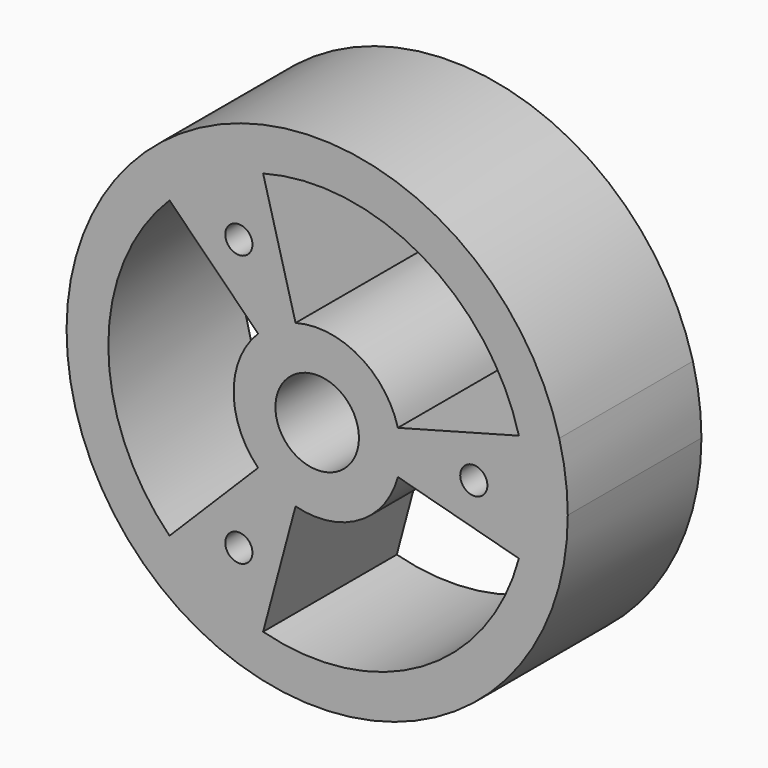
from build123d import *

# Parameters (mm, degrees)
F0_R     = 12.7
F1_DEPTH = 50.8
F2_D     = 8.255


with BuildPart() as f1:
    # F0 (on Front) → F1 (new body)
    with BuildSketch(Plane.XZ):
        with BuildLine():
            ThreePointArc((73.603548, 19.722011), (-75.548098, -9.946096), (76.2, 0))
            ThreePointArc((76.2, 0), (75.548098, 9.946096), (73.603548, 19.722011))
        make_face()
        with BuildLine():
            Line((24.534516, -6.574004), (61.33629, -16.435009))
            ThreePointArc((61.33629, -16.435009), (31.75, -54.992613), (-16.435009, -61.33629))
            Line((-16.435009, -61.33629), (-6.574004, -24.534516))
            ThreePointArc((-6.574004, -24.534516), (12.7, -21.997045), (24.534516, -6.574004))
        make_face(mode=Mode.SUBTRACT)
        with BuildLine():
            ThreePointArc((-44.901281, -44.901281), (-63.5, 0), (-44.901281, 44.901281))
            Line((-44.901281, 44.901281), (-17.960512, 17.960512))
            ThreePointArc((-17.960512, 17.960512), (-25.4, 0), (-17.960512, -17.960512))
            Line((-17.960512, -17.960512), (-44.901281, -44.901281))
        make_face(mode=Mode.SUBTRACT)
        Circle(F0_R, mode=Mode.SUBTRACT)
        with BuildLine():
            ThreePointArc((-16.435009, 61.33629), (31.75, 54.992613), (61.33629, 16.435009))
            Line((61.33629, 16.435009), (24.534516, 6.574004))
            ThreePointArc((24.534516, 6.574004), (12.7, 21.997045), (-6.574004, 24.534516))
            Line((-6.574004, 24.534516), (-16.435009, 61.33629))
        make_face(mode=Mode.SUBTRACT)
    extrude(amount=F1_DEPTH)

    # F2 (through all)
    with Locations(Plane(origin=(0, 0, 0), x_dir=(1, 0, 0), z_dir=(0, 1, 0))):
        with Locations((47.625, 0), (-23.8125, -41.24446), (-23.8125, 41.24446)):
            Hole(F2_D / 2)


solid = f1.part
